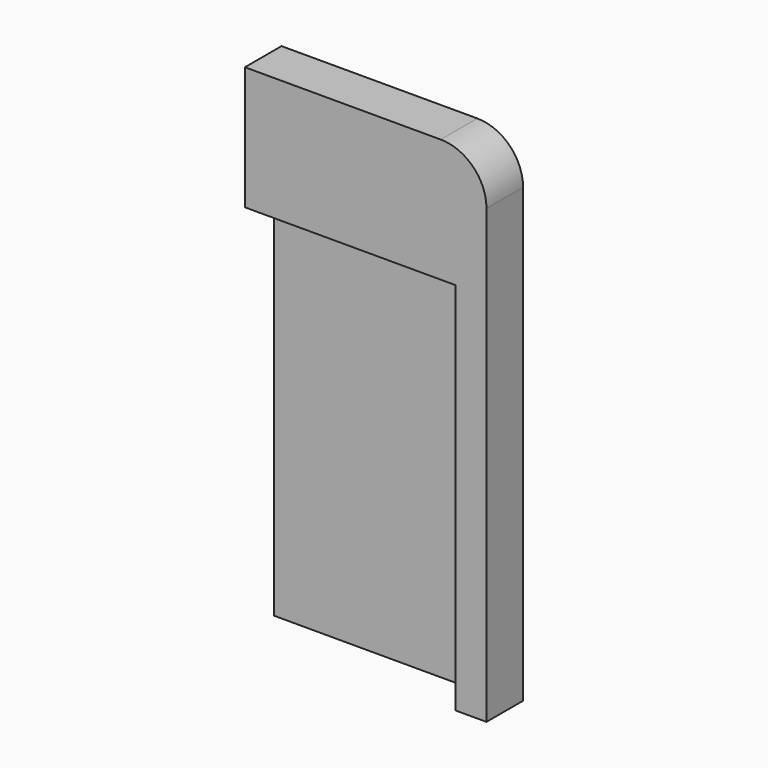
from build123d import *

# Parameters (mm, degrees)
F1_DEPTH = 6.35
F2_W     = 3.81
F2_H     = 15.8496
F3_DEPTH = 29.21762
F4_W     = 3.04038
F4_H     = 3.81
F5_DEPTH = 51.9684
F6_W     = 1.27
F6_H     = 51.9684
F7_DEPTH = 29.21762


with BuildPart() as f1:
    # F0 (on Front) → F1 (new body)
    with BuildSketch(Plane.XZ):
        with BuildLine():
            Line((27.178, 69.088), (0, 69.088))
            Line((0, 69.088), (0, 51.9684))
            Line((0, 51.9684), (29.21762, 51.9684))
            Line((29.21762, 51.9684), (29.21762, 0))
            Line((29.21762, 0), (33.528, 0))
            Line((33.528, 0), (33.528, 62.738))
            ThreePointArc((33.528, 62.738), (31.668128, 67.228128), (27.178, 69.088))
        make_face()
    extrude(amount=F1_DEPTH)

    # F2 (on face) → F3 (cut)
    with BuildSketch(Plane(origin=(0, 0, 0), x_dir=(0, -1, 0), z_dir=(-1, 0, 0))):
        with Locations((3.175, 59.8932)):
            Rectangle(F2_W, F2_H)
    extrude(amount=-F3_DEPTH, mode=Mode.SUBTRACT)

    # F4 (on face) → F5 (cut)
    with BuildSketch(Plane(origin=(0, 0, 0), x_dir=(1, 0, 0), z_dir=(0, 0, -1))):
        with Locations((30.73781, 3.175)):
            Rectangle(F4_W, F4_H)
    extrude(amount=-F5_DEPTH, mode=Mode.SUBTRACT)

    # F6 (on face) → F7 (join, through all)
    with BuildSketch(Plane(origin=(29.21762, 0, 0), x_dir=(0, -1, 0), z_dir=(-1, 0, 0))):
        with Locations((0.635, 25.9842)):
            Rectangle(F6_W, F6_H)
    extrude(amount=F7_DEPTH)


solid = f1.part
